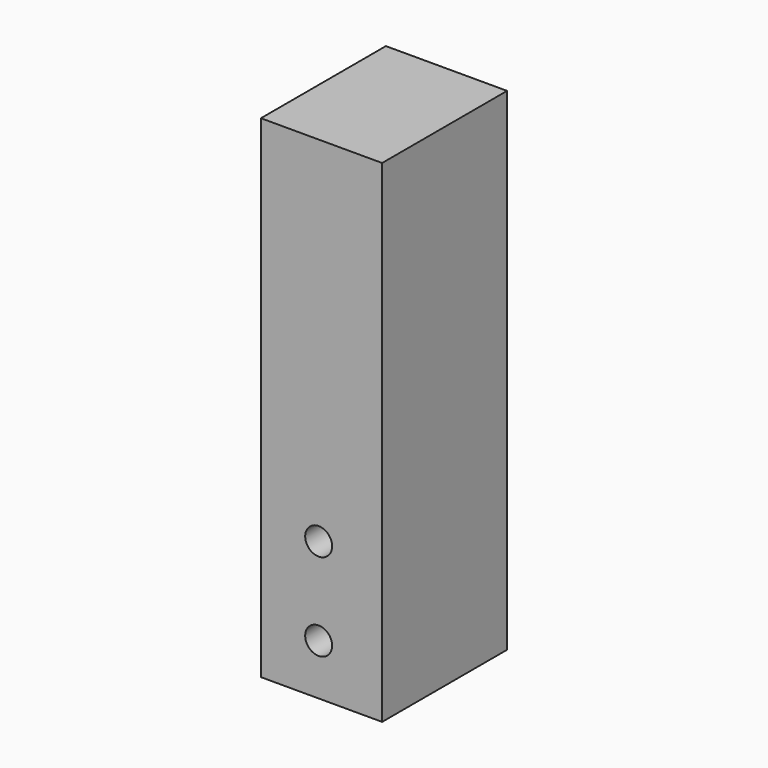
from build123d import *

# Parameters (mm, degrees)
F0_W     = 49.276
F0_H     = 200.025
F0_R     = 5.4737
F1_DEPTH = 63.5


with BuildPart() as f1:
    # F0 (on Front) → F1 (new body)
    with BuildSketch(Plane.XZ):
        with Locations((1.167852, 43.768731)):
            Rectangle(F0_W, F0_H)
        with Locations((0, -35.563968)):
            Circle(F0_R, mode=Mode.SUBTRACT)
        Circle(F0_R, mode=Mode.SUBTRACT)
    extrude(amount=F1_DEPTH)


solid = f1.part
